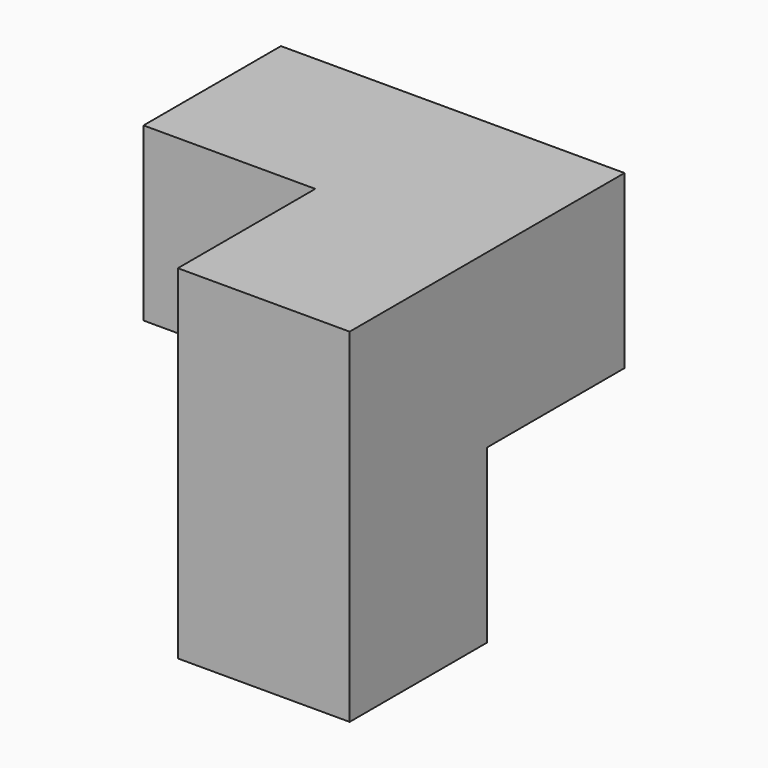
from build123d import *

# Parameters (mm, degrees)
F0_W     = 19.05
F0_H     = 38.1
F1_DEPTH = 19.05
F2_W     = 19.05
F2_H     = 19.05
F3_DEPTH = 19.05
F4_W     = 19.05
F4_H     = 19.05
F5_DEPTH = 19.05


with BuildPart() as f1:
    # F0 (on Top) → F1 (new body)
    with BuildSketch(Plane.XY):
        with Locations((9.525, 19.05)):
            Rectangle(F0_W, F0_H)
    extrude(amount=F1_DEPTH)

    # F2 (on face) → F3 (join)
    with BuildSketch(Plane(origin=(0, 0, 0), x_dir=(0, -1, 0), z_dir=(-1, 0, 0))):
        with Locations((-28.575, 9.525)):
            Rectangle(F2_W, F2_H)
    extrude(amount=F3_DEPTH)

    # F4 (on face) → F5 (join)
    with BuildSketch(Plane(origin=(0, 0, 0), x_dir=(1, 0, 0), z_dir=(0, 0, -1))):
        with Locations((9.525, -9.525)):
            Rectangle(F4_W, F4_H)
    extrude(amount=F5_DEPTH)


solid = f1.part
